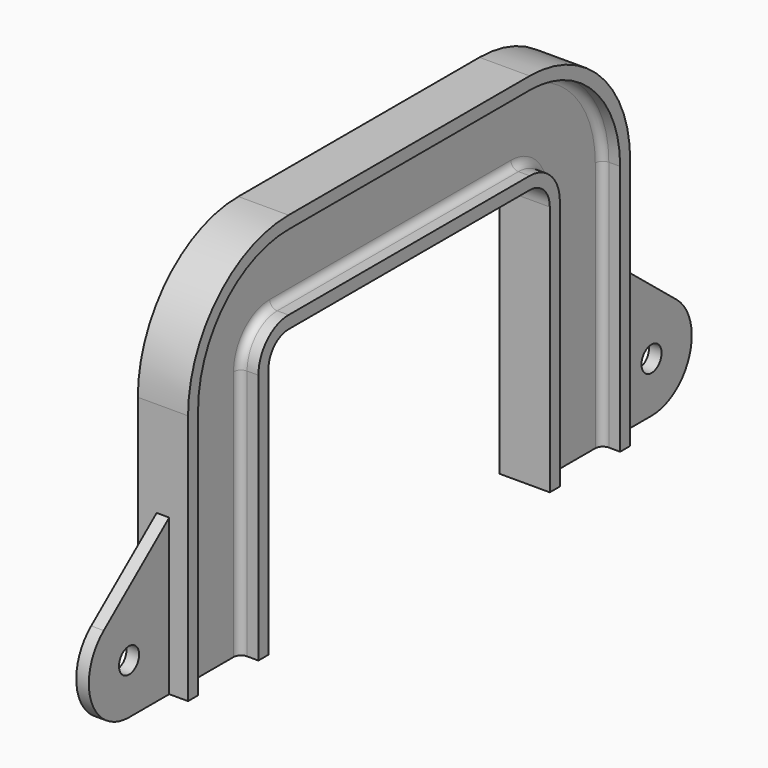
from build123d import *

# Parameters (mm, degrees)
F2_R     = 5
F5_DEPTH = 2.5


with BuildPart() as f3:
    # F3: sweep along a path in F1
    with BuildLine(Plane.YZ) as f3_path:
        Line((-70, -110), (-70, -10))
        ThreePointArc((-70, -10), (-67.0710678119, -2.9289321881), (-60, 0))
        Line((-60, 0), (0, 0))
    # F0 (on Front) → F3 (sweep)
    with BuildSketch(Plane.XZ):
        with BuildLine():
            Line((-10, 0), (10, 0))
            Line((10, 0), (10, 5))
            Line((10, 5), (5.5, 5))
            ThreePointArc((5.5, 5), (3.3786796564, 5.8786796564), (2.5, 8))
            Line((2.5, 8), (2.5, 32))
            ThreePointArc((2.5, 32), (3.3786796564, 34.1213203436), (5.5, 35))
            Line((5.5, 35), (10, 35))
            Line((10, 35), (10, 40))
            Line((10, 40), (-10, 40))
            Line((-10, 40), (-10, 35))
            Line((-10, 35), (-5.5, 35))
            ThreePointArc((-5.5, 35), (-3.3786796564, 34.1213203436), (-2.5, 32))
            Line((-2.5, 32), (-2.5, 8))
            ThreePointArc((-2.5, 8), (-3.3786796564, 5.8786796564), (-5.5, 5))
            Line((-5.5, 5), (-10, 5))
            Line((-10, 5), (-10, 0))
        make_face()
    sweep(path=f3_path.line)

    # F4: F3 across plane


with BuildPart() as f3_1:
    add(f3.part)
    add(f3.part.mirror(Plane.XZ))

    # F2 (on Right) → F5 (join, symmetric)
    with BuildSketch(Plane.YZ):
        with BuildLine():
            Line((-130, -110), (-100, -110))
            Line((-100, -110), (-100, -40))
            Line((-100, -40), (-142.5800752207, -74.4519548676))
            ThreePointArc((-142.5800752207, -74.4519548676), (-148.8541892248, -96.6722971064), (-130, -110))
        make_face()
        with Locations((-130, -90)):
            Circle(F2_R, mode=Mode.SUBTRACT)
    extrude(amount=F5_DEPTH, both=True)

    # F6: F3 across plane


with BuildPart() as f3_2:
    add(f3_1.part)
    add(f3_1.part.mirror(Plane.XZ))


solid = f3_2.part
